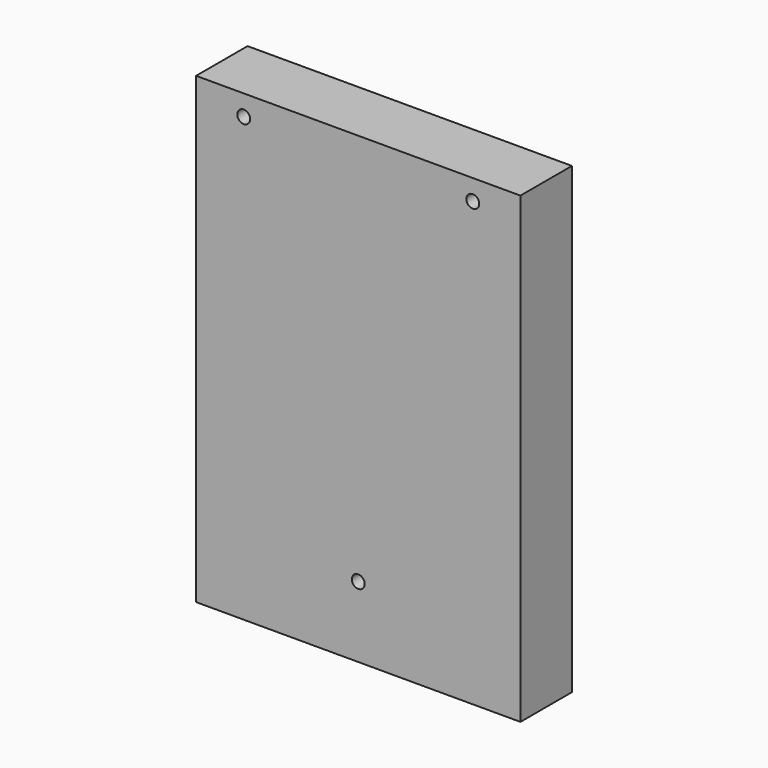
from build123d import *

# Parameters (mm, degrees)
F0_W     = 126
F0_H     = 180
F0_R     = 2.5
F1_DEPTH = 25


with BuildPart() as f1:
    # F0 (on Front) → F1 (new body)
    with BuildSketch(Plane.XZ):
        Rectangle(F0_W, F0_H)
        with Locations((0, -62.5)):
            Circle(F0_R, mode=Mode.SUBTRACT)
        with Locations((-44.5, 82)):
            Circle(F0_R, mode=Mode.SUBTRACT)
        with Locations((44.5, 82)):
            Circle(F0_R, mode=Mode.SUBTRACT)
    extrude(amount=F1_DEPTH)


solid = f1.part
